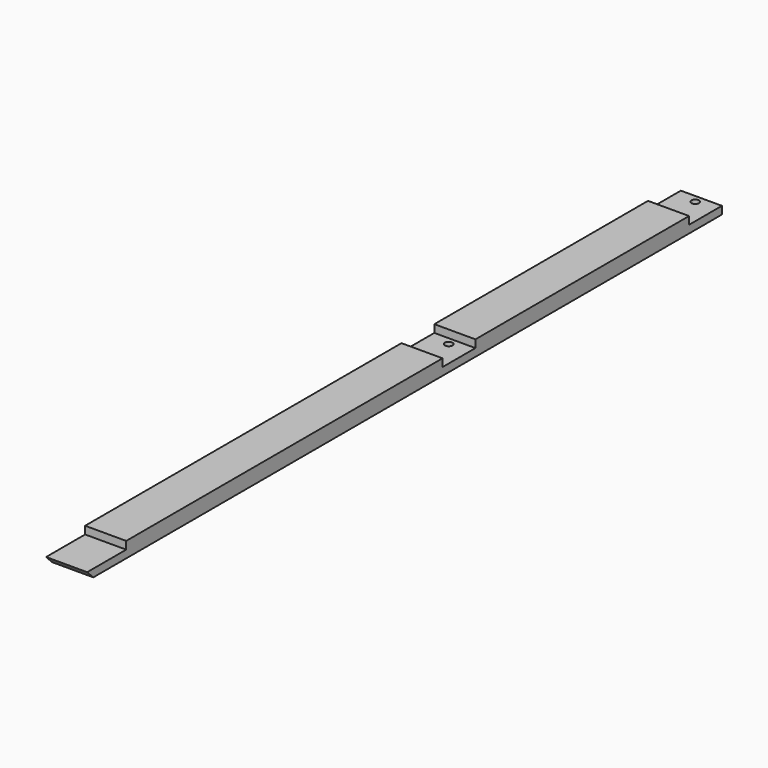
from build123d import *

# Parameters (mm, degrees)
F1_DEPTH = 25.4
F2_R     = 4.7625
F3_DEPTH = 25.4


with BuildPart() as f1:
    # F0 (on Right) → F1 (new body, symmetric)
    with BuildSketch(Plane.YZ):
        Polygon((406.4, 9.525), (0, 9.525), (-82.55, 9.525), (-82.55, 0), (-142.875, 0), (-133.35, -9.525), (-33.290768, -9.525), (838.2, -9.525), (838.2, 0), (787.4, 0), (787.4, 9.525), (457.2, 9.525), (457.2, 0), (406.4, 0), align=None)
    extrude(amount=F1_DEPTH, both=True)

    # F2 (on Top) → F3 (cut)
    with BuildSketch(Plane.XY):
        with Locations((0, 828.675)):
            Circle(F2_R)
        with Locations((0, 447.675)):
            Circle(F2_R)
    extrude(amount=-F3_DEPTH, mode=Mode.SUBTRACT)


solid = f1.part
